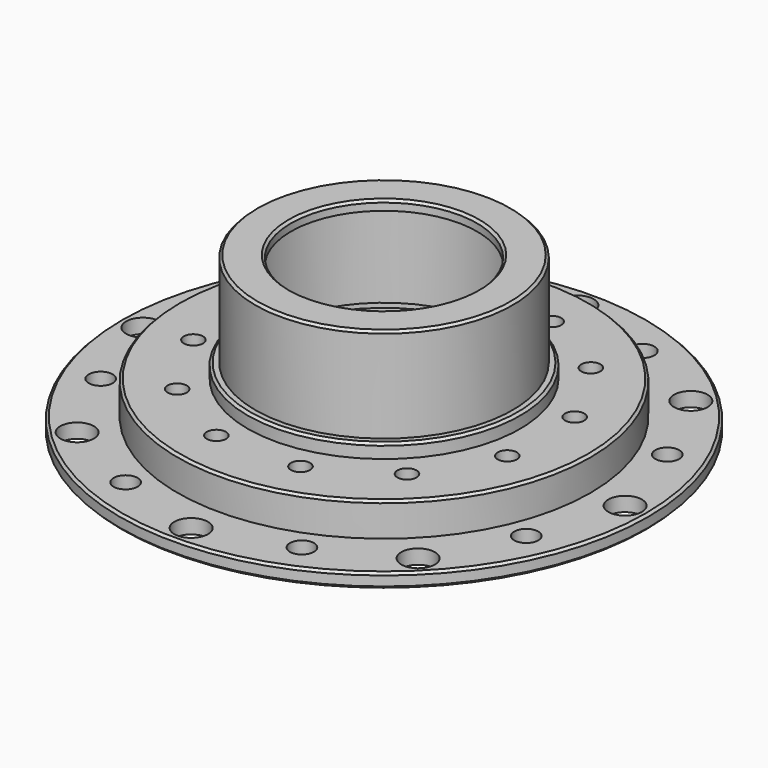
from build123d import *

# Parameters (mm, degrees)
F3_D     = 7
F4_D     = 5
F5_D     = 7
F6_D     = 4
F7_SIZE  = 1
F8_SIZE  = 0.5
F9_SIZE  = 0.5
F10_SIZE = 0.5
F11_SIZE = 0.5


with BuildPart() as f1:
    # F0 (on Front) → F1 (revolve)
    with BuildSketch(Plane.XZ):
        Polygon((-55, 3), (-55, 0), (-40.5, 0), (-40.5, 6), (-23.51, 6), (-23.51, 9.8), (-25.25, 9.8), (-25.25, 11.65), (-23.51, 11.65), (-23.51, 30.65), (-19.37856, 30.65), (-19.37856, 32.65), (-26.81, 32.65), (-26.81, 12.921854), (-28.388953, 12.921854), (-28.388953, 10), (-43, 10), (-43, 3), align=None)
    revolve(axis=Axis((0, 0, 31.65), (0, 0, 1)))

    # F3 (through all)
    with Locations(Plane(origin=(0, 0, 0), x_dir=(1, 0, 0), z_dir=(0, 0, -1))):
        with Locations((-35.5, -35.5), (35.5, -35.5), (35.5, 35.5), (-35.5, 35.5)):
            Hole(F3_D / 2)

    # F4 (through all)
    with Locations(Plane(origin=(0, 0, 0), x_dir=(1, 0, 0), z_dir=(0, 0, -1))):
        with Locations((-18.353477, -44.309214), (18.353477, -44.309214), (44.309214, -18.353477), (44.309214, 18.353477), (18.353477, 44.309214), (-18.353477, 44.309214), (-44.309214, 18.353477), (-44.309214, -18.353477)):
            Hole(F4_D / 2)

    # F5 (through all)
    with Locations(Plane(origin=(0, 0, 0), x_dir=(1, 0, 0), z_dir=(0, 0, -1))):
        with Locations((0, -50.20458), (-50.20458, 0), (50.20458, 0), (0, 50.20458)):
            Hole(F5_D / 2)

    # F6 (through all)
    with Locations(Plane(origin=(0, 0, 0), x_dir=(1, 0, 0), z_dir=(0, 0, -1))):
        with Locations((-23.927569, 23.927569), (-8.758098, 32.685667), (8.758098, 32.685667), (23.927569, 23.927569), (32.685667, 8.758098), (32.685667, -8.758098), (23.927569, -23.927569), (8.758098, -32.685667), (-8.758098, -32.685667), (-23.927569, -23.927569), (-32.685667, -8.758098), (-32.685667, 8.758098)):
            Hole(F6_D / 2)

    # F7
    f7_edges = [f1.edges().sort_by_distance(p)[0] for p in [
        (23.51, 0, 6),
    ]]
    chamfer(f7_edges, length=F7_SIZE)

    # F8
    f8_edges = [f1.edges().sort_by_distance(p)[0] for p in [
        (55, 0, 3),
        (43, 0, 10),
        (28.388953, 0, 12.921854),
        (26.81, 0, 32.65),
    ]]
    chamfer(f8_edges, length=F8_SIZE)

    # F9
    f9_edges = [f1.edges().sort_by_distance(p)[0] for p in [
        (40.5, 0, 0),
    ]]
    chamfer(f9_edges, length=F9_SIZE)

    # F10
    f10_edges = [f1.edges().sort_by_distance(p)[0] for p in [
        (55, 0, 0),
    ]]
    chamfer(f10_edges, length=F10_SIZE)

    # F11
    f11_edges = [f1.edges().sort_by_distance(p)[0] for p in [
        (19.37856, 0, 32.65),
    ]]
    chamfer(f11_edges, length=F11_SIZE)


solid = f1.part
